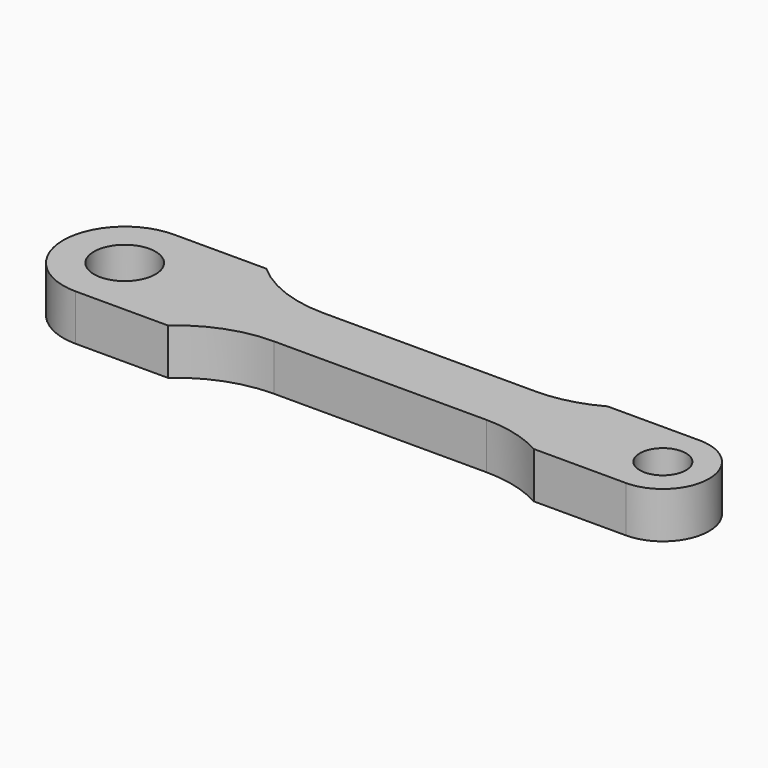
from build123d import *

# Parameters (mm, degrees)
F0_R     = 2
F0_R_2   = 1.5
F1_DEPTH = 3


with BuildPart() as f1:
    # F0 (on Top) → F1 (new body)
    with BuildSketch(Plane.XY):
        with BuildLine():
            Line((6, 4), (0, 4))
            ThreePointArc((0, 4), (-4, 0), (0, -4))
            Line((0, -4), (6, -4))
            ThreePointArc((6, -4), (8.463075, -2.516685), (11.291503, -2))
            Line((11.291503, -2), (25.127017, -2))
            ThreePointArc((25.127017, -2), (27.127017, -2.254033), (29, -3))
            Line((29, -3), (35, -3))
            ThreePointArc((35, -3), (38, 0), (35, 3))
            Line((35, 3), (29, 3))
            ThreePointArc((29, 3), (27.127017, 2.254033), (25.127017, 2))
            Line((25.127017, 2), (11.291503, 2))
            ThreePointArc((11.291503, 2), (8.463075, 2.516685), (6, 4))
        make_face()
        Circle(F0_R, mode=Mode.SUBTRACT)
        with Locations((35, 0)):
            Circle(F0_R_2, mode=Mode.SUBTRACT)
    extrude(amount=F1_DEPTH)


solid = f1.part
